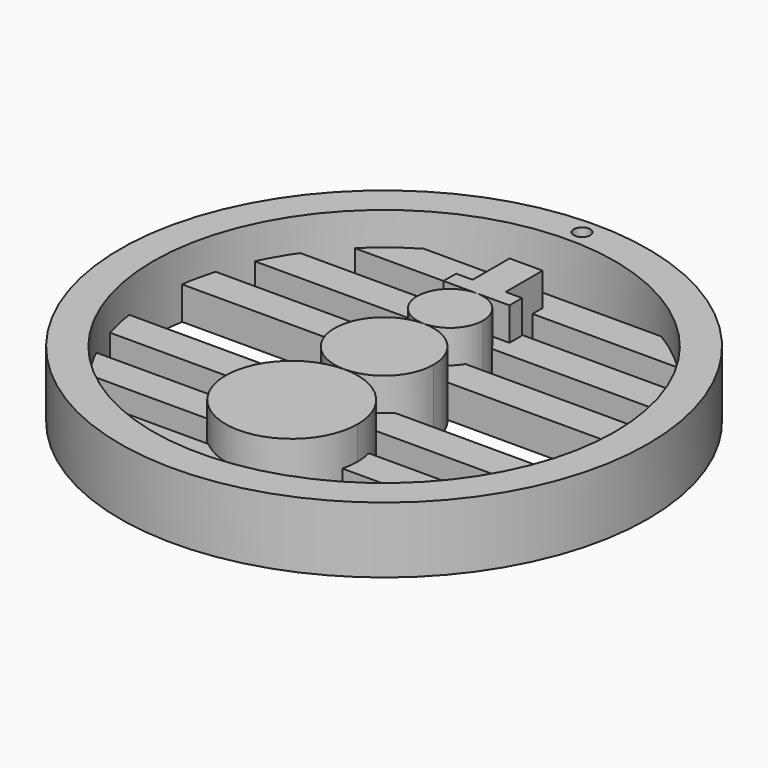
from build123d import *

# Parameters (mm, degrees)
F0_R     = 50.8
F0_R_2   = 44.45
F0_W     = 6.35
F0_H     = 8.89
F2_DEPTH = 12.7
F3_DEPTH = 6.35
F4_R     = 1.5875
F5_DEPTH = 25.4


with BuildPart() as f2:
    # F0 (on Top) → F2 (new body)
    with BuildSketch(Plane.XY):
        Circle(F0_R)
        Circle(F0_R_2, mode=Mode.SUBTRACT)
        with Locations((0, 29.718)):
            Rectangle(F0_W, F0_H)
        Polygon((-6.35, 22.225), (0, 22.225), (6.35, 22.225), (6.35, 25.273), (3.175, 25.273), (-3.175, 25.273), (-6.35, 25.273), align=None)
        with BuildLine():
            ThreePointArc((0, 22.225), (-6.35, 15.875), (0, 9.525))
            ThreePointArc((0, 9.525), (4.490128, 11.384872), (6.35, 15.875))
            ThreePointArc((6.35, 15.875), (4.490128, 20.365128), (0, 22.225))
        make_face()
        with BuildLine():
            ThreePointArc((0, -9.525), (6.735192, -6.735192), (9.525, 0))
            ThreePointArc((9.525, 0), (6.735192, 6.735192), (0, 9.525))
            ThreePointArc((0, 9.525), (-9.525, 0), (0, -9.525))
        make_face()
        with BuildLine():
            ThreePointArc((12.7, -22.225), (8.980256, -13.244744), (0, -9.525))
            ThreePointArc((0, -9.525), (-8.980256, -31.205256), (12.7, -22.225))
        make_face()
    extrude(amount=F2_DEPTH)

    # F4 (on face) → F5 (cut)
    with BuildSketch(Plane.XY.offset(12.7)):
        with Locations((0, 47.625)):
            Circle(F4_R)
    extrude(amount=-F5_DEPTH, mode=Mode.SUBTRACT)


with BuildPart() as f3:
    # F1 (on Top) → F3 (new body)
    with BuildSketch(Plane.XY):
        with BuildLine():
            Line((-31.10852, 31.75), (31.10852, 31.75))
            ThreePointArc((31.10852, 31.75), (27.18791, 35.165609), (22.895251, 38.1))
            Line((22.895251, 38.1), (-22.895251, 38.1))
            ThreePointArc((-22.895251, 38.1), (-27.18791, 35.165609), (-31.10852, 31.75))
        make_face()
        with BuildLine():
            Line((-40.160926, 19.05), (40.160926, 19.05))
            ThreePointArc((40.160926, 19.05), (38.450759, 22.301158), (36.477973, 25.4))
            Line((36.477973, 25.4), (-36.477973, 25.4))
            ThreePointArc((-36.477973, 25.4), (-38.450759, 22.301158), (-40.160926, 19.05))
        make_face()
        with BuildLine():
            Line((-43.994091, 6.35), (43.994091, 6.35))
            ThreePointArc((43.994091, 6.35), (43.411853, 9.550577), (42.597095, 12.7))
            Line((42.597095, 12.7), (-42.597095, 12.7))
            ThreePointArc((-42.597095, 12.7), (-43.411853, 9.550577), (-43.994091, 6.35))
        make_face()
        with BuildLine():
            ThreePointArc((42.597095, -12.7), (43.411853, -9.550577), (43.994091, -6.35))
            Line((43.994091, -6.35), (-43.994091, -6.35))
            ThreePointArc((-43.994091, -6.35), (-43.411853, -9.550577), (-42.597095, -12.7))
            Line((-42.597095, -12.7), (42.597095, -12.7))
        make_face()
        with BuildLine():
            ThreePointArc((36.477973, -25.4), (38.450759, -22.301158), (40.160926, -19.05))
            Line((40.160926, -19.05), (-40.160926, -19.05))
            ThreePointArc((-40.160926, -19.05), (-38.450759, -22.301158), (-36.477973, -25.4))
            Line((-36.477973, -25.4), (36.477973, -25.4))
        make_face()
        with BuildLine():
            ThreePointArc((22.895251, -38.1), (27.18791, -35.165609), (31.10852, -31.75))
            Line((31.10852, -31.75), (-31.10852, -31.75))
            ThreePointArc((-31.10852, -31.75), (-27.18791, -35.165609), (-22.895251, -38.1))
            Line((-22.895251, -38.1), (22.895251, -38.1))
        make_face()
    extrude(amount=F3_DEPTH)


solid = Compound([f2.part, f3.part])
